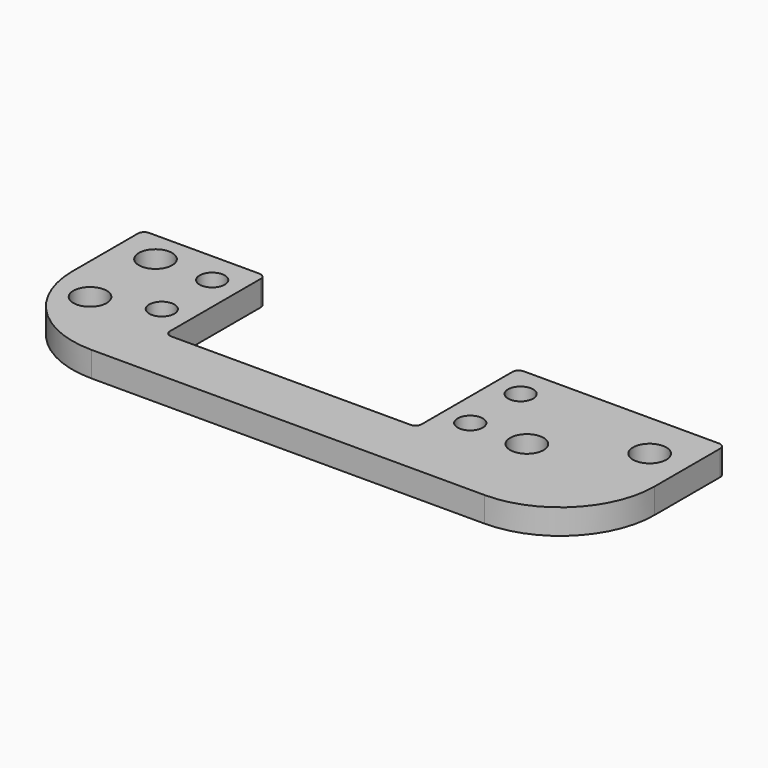
from build123d import *

# Parameters (mm, degrees)
SKETCH005_R   = 2
SKETCH005_R_2 = 2.65
PAD_DEPTH     = 4
FILLET_R      = 15
FILLET001_R   = 1
FILLET002_R   = 1


with BuildPart() as part:
    # Sketch005 → Pad (new body)
    with BuildSketch(Plane.XY.offset(-3)):
        Polygon((-50.5, -19), (42, -19), (42, 10), (9, 10), (9, -10), (-31, -10), (-31, 10), (-50.5, 10), align=None)
        with Locations((-35.5, 5)):
            Circle(SKETCH005_R, mode=Mode.SUBTRACT)
        with Locations((-35.5, -5)):
            Circle(SKETCH005_R, mode=Mode.SUBTRACT)
        with Locations((13.5, 5)):
            Circle(SKETCH005_R, mode=Mode.SUBTRACT)
        with Locations((13.5, -5)):
            Circle(SKETCH005_R, mode=Mode.SUBTRACT)
        with Locations((-44.5, -8)):
            Circle(SKETCH005_R_2, mode=Mode.SUBTRACT)
        with Locations((-44.5, 5)):
            Circle(SKETCH005_R_2, mode=Mode.SUBTRACT)
        with Locations((22.5, -5)):
            Circle(SKETCH005_R_2, mode=Mode.SUBTRACT)
        with Locations((36, 2.5)):
            Circle(SKETCH005_R_2, mode=Mode.SUBTRACT)
    extrude(amount=PAD_DEPTH)

    # Fillet
    fillet_edges = [part.edges().sort_by_distance(p)[0] for p in [
        (-50.5, -19, -1),
        (42, -19, -1),
    ]]
    fillet(fillet_edges, radius=FILLET_R)

    # Fillet001
    fillet001_edges = [part.edges().sort_by_distance(p)[0] for p in [
        (42, 10, -1),
        (9, 10, -1),
        (-31, 10, -1),
        (-50.5, 10, -1),
    ]]
    fillet(fillet001_edges, radius=FILLET001_R)

    # Fillet002
    fillet002_edges = [part.edges().sort_by_distance(p)[0] for p in [
        (-31, -10, -1),
        (9, -10, -1),
    ]]
    fillet(fillet002_edges, radius=FILLET002_R)


solid = part.part
